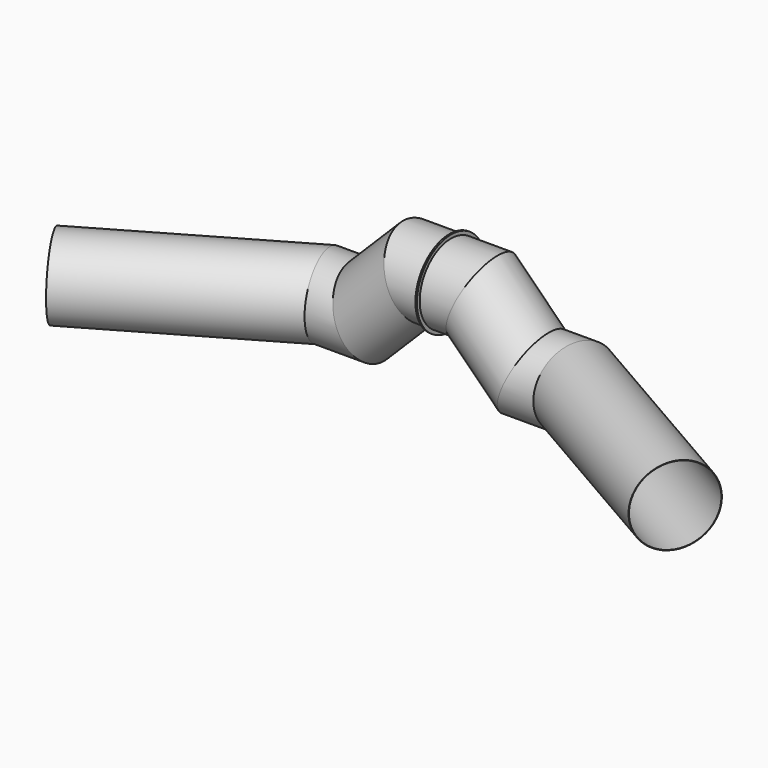
from build123d import *

# Parameters (mm, degrees)
F4_R     = 505
F4_R_2   = 500
F6_R     = 550
F6_R_2   = 500
F7_DEPTH = 10


with BuildPart() as f5:
    # F5: sweep along a path in F3, F2
    with BuildLine(Plane.XZ) as f5_path:
        Line((0, 0), (400, 0))
        Line((400, 0), (1060, -660))
        Line((1060, -660), (1610, -660))
    with BuildLine(Plane.XY.offset(-660)) as f5_path_2:
        Line((1610, 0), (4006.8977305508, -1383.8495499535))
    # F4 (on Right) → F5 (sweep)
    with BuildSketch(Plane.YZ):
        Circle(F4_R)
        Circle(F4_R_2, mode=Mode.SUBTRACT)
    sweep(path=f5_path.line + f5_path_2.line, transition=Transition.RIGHT)

    # F6 (on face) → F7 (join)
    with BuildSketch(Plane(origin=(0, 0, 0), x_dir=(0, -1, 0), z_dir=(-1, 0, 0))):
        Circle(F6_R)
        Circle(F6_R_2, mode=Mode.SUBTRACT)
    extrude(amount=-F7_DEPTH)


with BuildPart() as f8_1:
    # F8: instance of F5
    add(f5.part.mirror(Plane.YZ))


solid = Compound([f5.part, f8_1.part])
